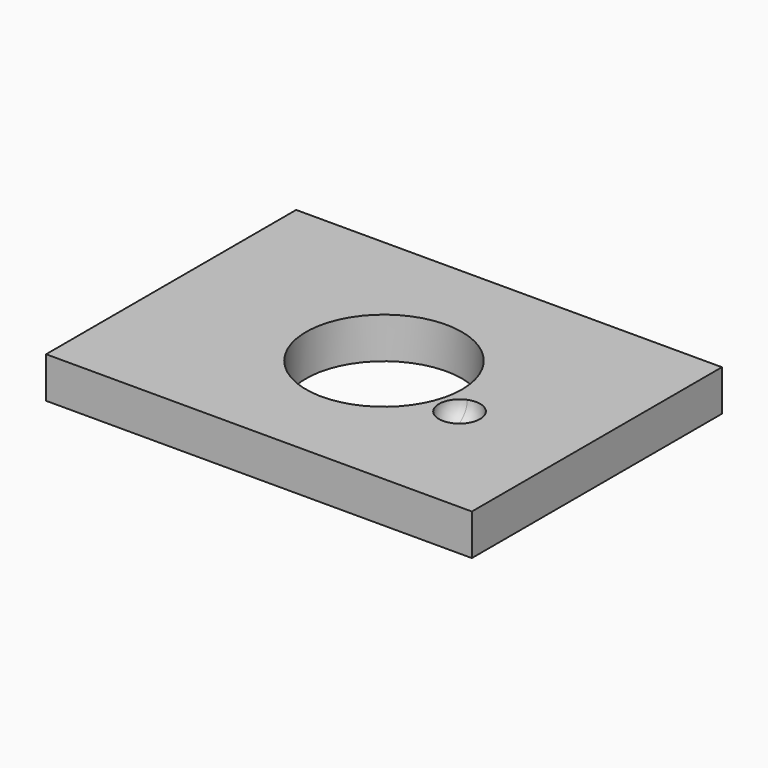
from build123d import *

# Parameters (mm, degrees)
F0_W     = 51.9
F0_H     = 38.1
F0_R     = 9.5
F1_DEPTH = 2.5


with BuildPart() as f1:
    # F0 (on Top) → F1 (new body, symmetric)
    with BuildSketch(Plane.XY):
        Rectangle(F0_W, F0_H)
        Circle(F0_R, mode=Mode.SUBTRACT)
    extrude(amount=F1_DEPTH, both=True)

    # F2 (on face) → F3 (revolve, cut)
    with BuildSketch(Plane.XY.offset(2.5)):
        with BuildLine():
            Line((14.65, -3.6893317878), (12.1541903113, -3.6755036277))
            ThreePointArc((12.1541903113, -3.6755036277), (11.7305653131, -4.8608133553), (11.1916659396, -5.9983566531))
            ThreePointArc((11.1916659396, -5.9983566531), (13.5381939434, -5.768494498), (14.65, -3.6893317878))
        make_face()
        with BuildLine():
            ThreePointArc((11.1916659396, -5.9983566531), (11.7305653131, -4.8608133553), (12.1541903113, -3.6755036277))
            Line((12.1541903113, -3.6755036277), (9.6501534838, -3.6616298846))
            ThreePointArc((9.6501534838, -3.6616298846), (10.0631779609, -5.0659848949), (11.1916659396, -5.9983566531))
        make_face()
    revolve(axis=Axis((12.1500767419, -3.6754808362, 2.5), (0.9999846515, -0.0055404657, 0)), mode=Mode.SUBTRACT)


solid = f1.part
